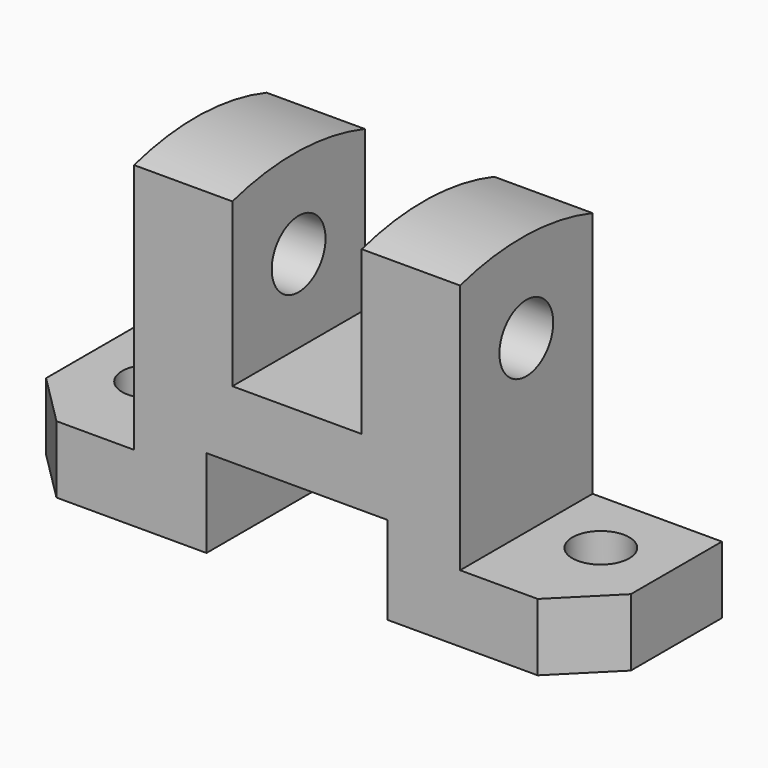
from build123d import *

# Parameters (mm, degrees)
F1_DEPTH = 32
F2_R     = 5.5
F3_DEPTH = 25
F4_R     = 6.5
F5_DEPTH = 132.41419


with BuildPart() as f1:
    # F0 (on Front) → F1 (new body)
    with BuildSketch(Plane.XZ):
        Polygon((0, 13), (0, 0), (39, 0), (39, 17), (74, 17), (74, 0), (113, 0), (113, 13), (88, 13), (88, 64), (69, 64), (69, 30), (44, 30), (44, 64), (25, 64), (25, 13), align=None)
    extrude(amount=F1_DEPTH)

    # F2 (on Top) → F3 (cut)
    with BuildSketch(Plane.XY):
        with Locations((13, -13)):
            Circle(F2_R)
        with Locations((100, -13)):
            Circle(F2_R)
        Polygon((10, -32), (0, -22), (0, -32), align=None)
        Polygon((113, -22), (103, -32), (113, -32), align=None)
    extrude(amount=F3_DEPTH, mode=Mode.SUBTRACT)

    # F4 (on Right) → F5 (cut)
    with BuildSketch(Plane.YZ):
        with Locations((-16, 46)):
            Circle(F4_R)
        with BuildLine():
            ThreePointArc((-32, 61.440635), (-15.948352, 63.505935), (0, 60.7544))
            Line((0, 60.7544), (0, 64))
            Line((0, 64), (-32, 64))
            Line((-32, 64), (-32, 61.440635))
        make_face()
    extrude(amount=F5_DEPTH, mode=Mode.SUBTRACT)


solid = f1.part
